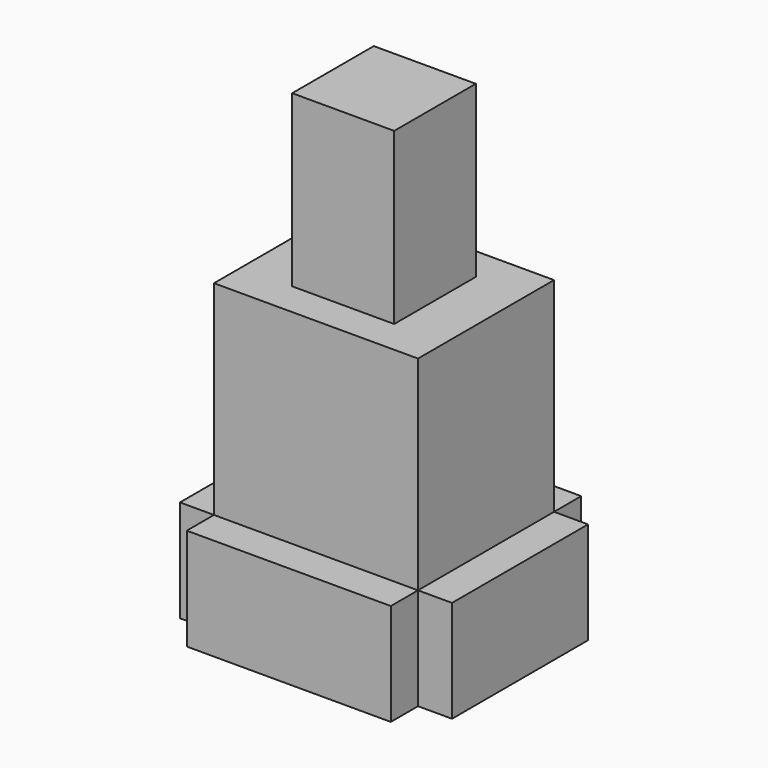
from build123d import *

# Parameters (mm, degrees)
BOX036_W     = 3
BOX036_H     = 3
BOX036_DEPTH = 10
BOX038_W     = 1
BOX038_H     = 5
BOX038_DEPTH = 3
BOX039_W     = 1
BOX039_H     = 5
BOX039_DEPTH = 3
BOX040_W     = 6
BOX040_H     = 1
BOX040_DEPTH = 3
BOX041_W     = 6
BOX041_H     = 1
BOX041_DEPTH = 3
BOX037_W     = 6
BOX037_H     = 5
BOX037_DEPTH = 6


with BuildPart() as box036:
    # Box036 → Box036 (new body)
    with BuildSketch(Plane(origin=(13.5, 8.25, 10), x_dir=(1, 0, 0), z_dir=(0, 0, 1))):
        with Locations((1.5, 1.5)):
            Rectangle(BOX036_W, BOX036_H)
    extrude(amount=BOX036_DEPTH)


with BuildPart() as box038:
    # Box038 → Box038 (new body)
    with BuildSketch(Plane(origin=(11, 7.25, 6), x_dir=(1, 0, 0), z_dir=(0, 0, 1))):
        with Locations((0.5, 2.5)):
            Rectangle(BOX038_W, BOX038_H)
    extrude(amount=BOX038_DEPTH)


with BuildPart() as box039:
    # Box039 → Box039 (new body)
    with BuildSketch(Plane(origin=(18, 7.25, 6), x_dir=(1, 0, 0), z_dir=(0, 0, 1))):
        with Locations((0.5, 2.5)):
            Rectangle(BOX039_W, BOX039_H)
    extrude(amount=BOX039_DEPTH)


with BuildPart() as box040:
    # Box040 → Box040 (new body)
    with BuildSketch(Plane(origin=(12, 6.25, 6), x_dir=(1, 0, 0), z_dir=(0, 0, 1))):
        with Locations((3, 0.5)):
            Rectangle(BOX040_W, BOX040_H)
    extrude(amount=BOX040_DEPTH)


with BuildPart() as box041:
    # Box041 → Box041 (new body)
    with BuildSketch(Plane(origin=(12, 12.25, 6), x_dir=(1, 0, 0), z_dir=(0, 0, 1))):
        with Locations((3, 0.5)):
            Rectangle(BOX041_W, BOX041_H)
    extrude(amount=BOX041_DEPTH)


with BuildPart() as bt_ex2:
    # Box037 → Box037 (new body)
    with BuildSketch(Plane(origin=(12, 7.25, 9), x_dir=(1, 0, 0), z_dir=(0, 0, 1))):
        with Locations((3, 2.5)):
            Rectangle(BOX037_W, BOX037_H)
    extrude(amount=BOX037_DEPTH)

    # Fusion010: union Box038, Box039, Box040, Box041
    add(box038.part)
    add(box039.part)
    add(box040.part)
    add(box041.part)

    # Fusion011: union Box036
    add(box036.part)


with BuildPart() as bt_ex2_1:
    # Fusion011 placement: moved
    add(bt_ex2.part.moved(Location((0, 11, 4))))


solid = bt_ex2_1.part
